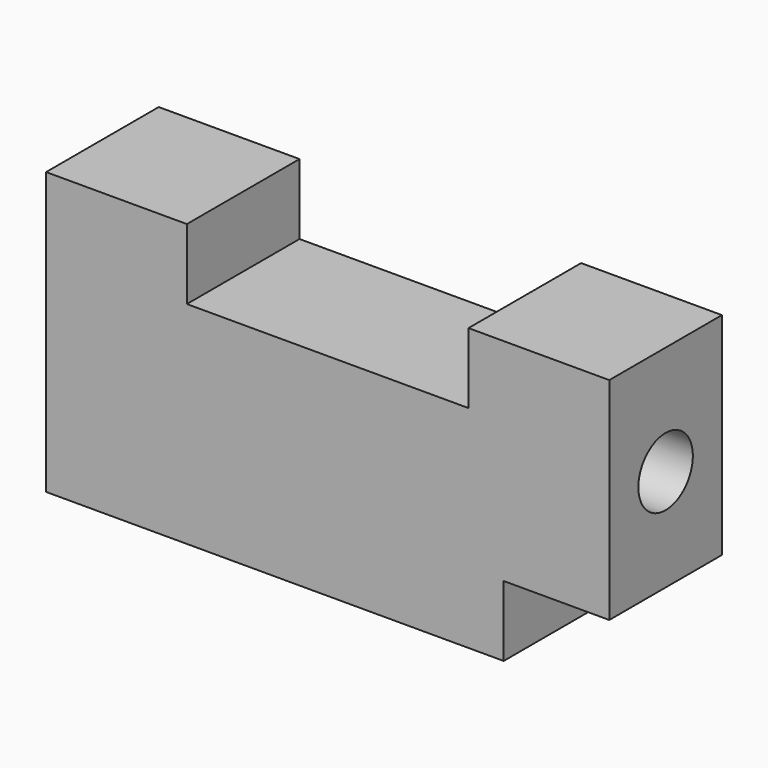
from build123d import *

# Parameters (mm, degrees)
F0_W     = 101.6
F0_H     = 50.8
F1_DEPTH = 25.4
F2_W     = 50.8
F2_H     = 12.7
F3_DEPTH = 25.401
F4_W     = 19.05
F4_H     = 12.7
F5_DEPTH = 25.401
F6_R     = 6.14583
F7_DEPTH = 50.8
F8_DEPTH = 50.801


with BuildPart() as f1:
    # F0 (on Front) → F1 (new body)
    with BuildSketch(Plane.XZ):
        Rectangle(F0_W, F0_H)
    extrude(amount=F1_DEPTH)

    # F2 (on Front) → F3 (cut, through all)
    with BuildSketch(Plane.XZ):
        with Locations((0, 19.05)):
            Rectangle(F2_W, F2_H)
    extrude(amount=F3_DEPTH, mode=Mode.SUBTRACT)

    # F4 (on Front) → F5 (cut, through all)
    with BuildSketch(Plane.XZ):
        with Locations((41.275, -19.05)):
            Rectangle(F4_W, F4_H)
    extrude(amount=F5_DEPTH, mode=Mode.SUBTRACT)

    # F6 (on Right) → F7 (cut)
    with BuildSketch(Plane.YZ):
        with Locations((-12.7, 5.715)):
            Circle(F6_R)
    extrude(amount=-F7_DEPTH, mode=Mode.SUBTRACT)

    # F6 (on Right) → F8 (cut, through all)
    with BuildSketch(Plane.YZ):
        with Locations((-12.7, 5.715)):
            Circle(F6_R)
    extrude(amount=F8_DEPTH, mode=Mode.SUBTRACT)


solid = f1.part
